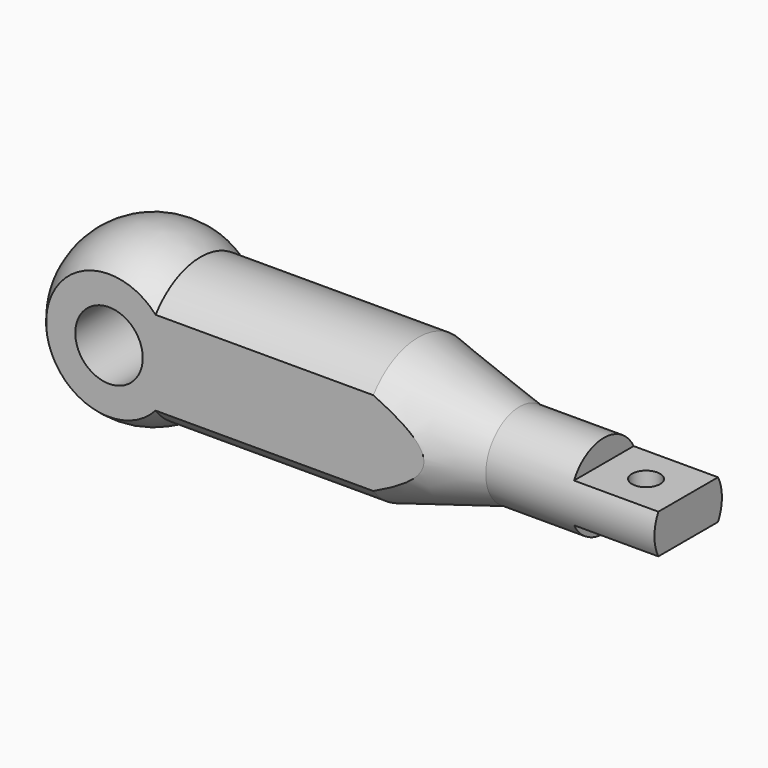
from build123d import *

# Parameters (mm, degrees)
F3_DEPTH = 20
F4_R     = 6
F5_DEPTH = 25
F7_DEPTH = 15
F8_R     = 2.5
F9_DEPTH = 25


with BuildPart() as f1:
    # F0 (on Front) → F1 (revolve)
    with BuildSketch(Plane.XZ):
        with BuildLine():
            Line((0, 0), (15, 0))
            ThreePointArc((15, 0), (13.2169101843, 7.0931858273), (8.2915619759, 12.5))
            ThreePointArc((8.2915619759, 12.5), (-7.0931858273, 13.2169101843), (-15, 0))
            Line((-15, 0), (0, 0))
        make_face()
        with BuildLine():
            ThreePointArc((8.2915619759, 12.5), (13.2169101843, 7.0931858273), (15, 0))
            Line((15, 0), (95, 0))
            Line((95, 0), (95, 7.5))
            Line((95, 7.5), (65, 7.5))
            Line((65, 7.5), (47, 7.5))
            Line((47, 7.5), (47, 12.5))
            Line((47, 12.5), (8.2915619759, 12.5))
        make_face()
        Polygon((65, 7.5), (47, 12.5), (47, 7.5), align=None)
    revolve(axis=Axis((47.5, 0, 0), (1, 0, 0)))

    # F2 (on Top) → F3 (cut, symmetric)
    with BuildSketch(Plane.XY):
        Polygon((-19.7842754424, 10), (0, 10), (81.8099752069, 10), (81.8099752069, 23.0370275676), (-32.5076542795, 24.0009203553), (-32.5076542795, -25.1575894654), (84.8944336176, -25.1575894654), (84.8944336176, -10), (-19.7842754424, -10), align=None)
    extrude(amount=F3_DEPTH, both=True, mode=Mode.SUBTRACT)

    # F4 (on face) → F5 (cut)
    with BuildSketch(Plane.XZ.offset(10)):
        Circle(F4_R)
    extrude(amount=-F5_DEPTH, mode=Mode.SUBTRACT)

    # F6 (on face) → F7 (cut)
    with BuildSketch(Plane.YZ.offset(95)):
        with BuildLine():
            ThreePointArc((6.6332495807, 3.5), (0, 7.5), (-6.6332495807, 3.5))
            Line((-6.6332495807, 3.5), (6.6332495807, 3.5))
        make_face()
        with BuildLine():
            Line((6.6332495807, -3.5), (-6.6332495807, -3.5))
            ThreePointArc((-6.6332495807, -3.5), (0, -7.5), (6.6332495807, -3.5))
        make_face()
    extrude(amount=-F7_DEPTH, mode=Mode.SUBTRACT)

    # F8 (on face) → F9 (cut)
    with BuildSketch(Plane.XY.offset(3.5)):
        with Locations((87.5, 0)):
            Circle(F8_R)
    extrude(amount=-F9_DEPTH, mode=Mode.SUBTRACT)


solid = f1.part
